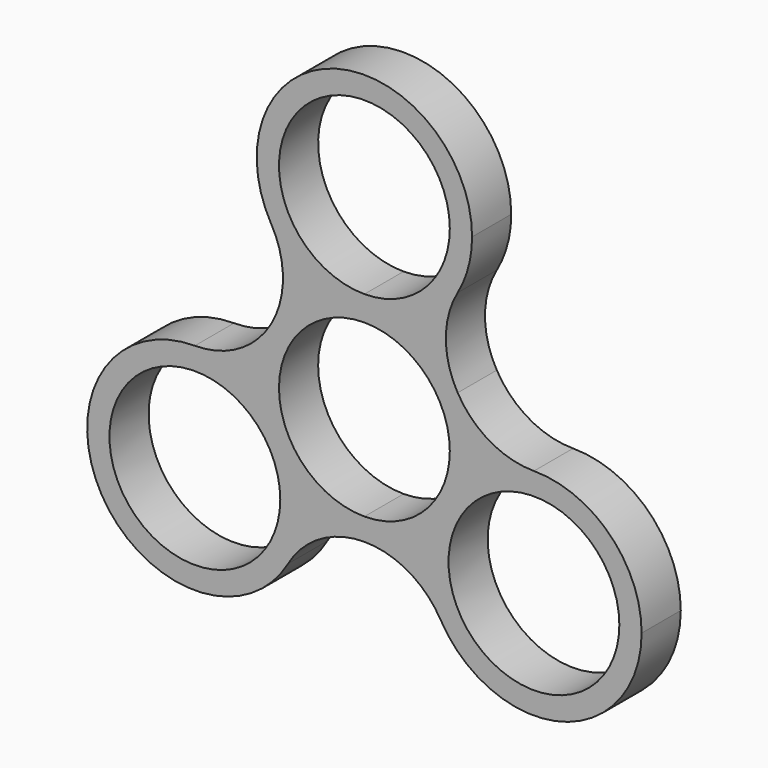
from build123d import *

# Parameters (mm, degrees)
F0_R     = 11.08075
F1_DEPTH = 6.35


with BuildPart() as f1:
    # F0 (on Front) → F1 (new body)
    with BuildSketch(Plane.XZ):
        with BuildLine():
            ThreePointArc((0, -11.08075), (-11.08075, 0), (0, 11.08075))
            Line((0, 11.08075), (0, 11.43))
            ThreePointArc((0, 11.43), (-2.9784140075, 11.7511923598), (-5.8198711326, 12.7))
            ThreePointArc((-5.8198711326, 12.7), (-9.4037860849, 10.3310070791), (-12.0983749873, 6.9849998329))
            ThreePointArc((-12.0983749873, 6.9849998329), (-13.6488076608, 2.9784139133), (-13.9084581944, -1.3098437524))
            ThreePointArc((-13.9084581944, -1.3098437524), (-9.8986703653, -5.715), (-8.0885870618, -11.3901562476))
            ThreePointArc((-8.0885870618, -11.3901562476), (-4.2450216288, -13.3094211509), (-4.4e-09, -13.97))
            Line((0, -13.97), (0, -11.08075))
        make_face()
        with BuildLine():
            ThreePointArc((-13.9084581944, -1.3098437524), (-12.0983748909, -6.985), (-8.0885870618, -11.3901562476))
            ThreePointArc((-8.0885870618, -11.3901562476), (-9.8986703653, -5.715), (-13.9084581944, -1.3098437524))
        make_face()
        with BuildLine():
            ThreePointArc((-8.0270452561, -12.7), (-8.042439189, -12.044355651), (-8.0885870618, -11.3901562476))
            ThreePointArc((-8.0885870618, -11.3901562476), (-12.0983748909, -6.985), (-13.9084581944, -1.3098437524))
            ThreePointArc((-13.9084581944, -1.3098437524), (-17.7520236295, 0.6094211516), (-21.9970452561, 1.27))
            ThreePointArc((-21.9970452561, 1.27), (-34.095420147, -19.685), (-9.8986703653, -19.685))
            ThreePointArc((-9.8986703653, -19.685), (-8.5030614629, -16.3157020601), (-8.0270452561, -12.7))
        make_face()
        with Locations((-21.9970452561, -12.7)):
            Circle(F0_R, mode=Mode.SUBTRACT)
        with BuildLine():
            ThreePointArc((-13.9084581944, -1.3098437524), (-13.6488076608, 2.9784139133), (-12.0983749873, 6.9849998329))
            ThreePointArc((-12.0983749873, 6.9849998329), (-16.2820453397, 2.8013295865), (-21.9970452561, 1.27))
            ThreePointArc((-21.9970452561, 1.27), (-17.7520236295, 0.6094211516), (-13.9084581944, -1.3098437524))
        make_face()
        with BuildLine():
            ThreePointArc((-12.0983749873, 6.9849998329), (-9.4037860849, 10.3310070791), (-5.8198711326, 12.7))
            ThreePointArc((-5.8198711326, 12.7), (-9.4037860136, 15.0689928559), (-12.0983748909, 18.415))
            ThreePointArc((-12.0983748909, 18.415), (-10.5670452561, 12.6999999036), (-12.0983749873, 6.9849998329))
        make_face()
        with BuildLine():
            ThreePointArc((-5.8198711326, 12.7), (-2.9784140075, 13.6488076402), (0, 13.97))
            ThreePointArc((0, 13.97), (2.9784140075, 13.6488076402), (5.8198711326, 12.7))
            ThreePointArc((5.8198711326, 12.7), (9.4037860136, 15.0689928559), (12.0983748909, 18.415))
            ThreePointArc((12.0983748909, 18.415), (13.4939837933, 21.7842979399), (13.97, 25.4))
            ThreePointArc((13.97, 25.4), (-3.6157020601, 38.8939837933), (-12.0983748909, 18.415))
            ThreePointArc((-12.0983748909, 18.415), (-9.4037860136, 15.0689928559), (-5.8198711326, 12.7))
        make_face()
        with BuildLine():
            ThreePointArc((11.08075, 25.4), (7.8352734656, 17.5647265344), (0, 14.31925))
            ThreePointArc((0, 14.31925), (-7.8352734656, 33.2352734656), (11.08075, 25.4))
        make_face(mode=Mode.SUBTRACT)
        with BuildLine():
            ThreePointArc((-5.8198711326, 12.7), (-2.9784140075, 11.7511923598), (0, 11.43))
            Line((0, 11.43), (0, 13.97))
            ThreePointArc((0, 13.97), (-2.9784140075, 13.6488076402), (-5.8198711326, 12.7))
        make_face()
        with BuildLine():
            Line((0, 13.97), (0, 11.43))
            ThreePointArc((0, 11.43), (2.9784140075, 11.7511923598), (5.8198711326, 12.7))
            ThreePointArc((5.8198711326, 12.7), (2.9784140075, 13.6488076402), (0, 13.97))
        make_face()
        with BuildLine():
            ThreePointArc((0, 11.08075), (7.8352734656, 7.8352734656), (11.08075, 0))
            ThreePointArc((11.08075, 0), (7.8352734656, -7.8352734656), (0, -11.08075))
            Line((0, -11.08075), (0, -13.97))
            ThreePointArc((-4.4e-09, -13.97), (4.2450216245, -13.3094211522), (8.0885870618, -11.3901562476))
            ThreePointArc((8.0885870618, -11.3901562476), (9.8986703653, -5.715), (13.9084581944, -1.3098437524))
            ThreePointArc((13.9084581944, -1.3098437524), (13.9546060671, -0.655644349), (13.97, 0))
            ThreePointArc((13.97, 0), (13.4939837983, 3.6157020414), (12.0983749102, 6.9849999665))
            ThreePointArc((12.0983749102, 6.9849999665), (9.4037860279, 10.331007131), (5.8198711326, 12.7))
            ThreePointArc((5.8198711326, 12.7), (2.9784140075, 11.7511923598), (0, 11.43))
            Line((0, 11.43), (0, 11.08075))
        make_face()
        with BuildLine():
            ThreePointArc((12.0983748909, 18.415), (9.4037860136, 15.0689928559), (5.8198711326, 12.7))
            ThreePointArc((5.8198711326, 12.7), (9.4037860279, 10.331007131), (12.0983749102, 6.9849999665))
            ThreePointArc((12.0983749102, 6.9849999665), (10.5670452561, 12.6999999806), (12.0983748909, 18.415))
        make_face()
        with BuildLine():
            ThreePointArc((21.9970452561, 1.27), (16.2820452729, 2.8013296251), (12.0983749102, 6.9849999665))
            ThreePointArc((12.0983749102, 6.9849999665), (13.4939837983, 3.6157020414), (13.97, 0))
            ThreePointArc((13.97, 0), (13.9546060671, -0.655644349), (13.9084581944, -1.3098437524))
            ThreePointArc((13.9084581944, -1.3098437524), (17.7520236295, 0.6094211516), (21.9970452561, 1.27))
        make_face()
        with BuildLine():
            ThreePointArc((13.9084581944, -1.3098437524), (12.0983748909, -6.985), (8.0885870618, -11.3901562476))
            ThreePointArc((8.0885870618, -11.3901562476), (8.3482376159, -15.6784140075), (9.8986703653, -19.685))
            ThreePointArc((9.8986703653, -19.685), (25.6127473162, -26.1939837933), (35.9670452561, -12.7))
            ThreePointArc((35.9670452561, -12.7), (31.8753269893, -2.8217182668), (21.9970452561, 1.27))
            ThreePointArc((21.9970452561, 1.27), (17.7520236295, 0.6094211516), (13.9084581944, -1.3098437524))
        make_face()
        with Locations((21.9970452561, -12.7)):
            Circle(F0_R, mode=Mode.SUBTRACT)
        with BuildLine():
            ThreePointArc((13.9084581944, -1.3098437524), (9.8986703653, -5.715), (8.0885870618, -11.3901562476))
            ThreePointArc((8.0885870618, -11.3901562476), (12.0983748909, -6.985), (13.9084581944, -1.3098437524))
        make_face()
        with BuildLine():
            ThreePointArc((-9.8986703653, -19.685), (-5.7150000019, -15.5013296359), (-4.4e-09, -13.97))
            ThreePointArc((-4.4e-09, -13.97), (-4.2450216288, -13.3094211509), (-8.0885870618, -11.3901562476))
            ThreePointArc((-8.0885870618, -11.3901562476), (-8.042439189, -12.044355651), (-8.0270452561, -12.7))
            ThreePointArc((-8.0270452561, -12.7), (-8.5030614629, -16.3157020601), (-9.8986703653, -19.685))
        make_face()
        with BuildLine():
            ThreePointArc((8.0885870618, -11.3901562476), (4.2450216245, -13.3094211522), (-4.4e-09, -13.97))
            ThreePointArc((-4.4e-09, -13.97), (5.7149999981, -15.5013296336), (9.8986703653, -19.685))
            ThreePointArc((9.8986703653, -19.685), (8.3482376159, -15.6784140075), (8.0885870618, -11.3901562476))
        make_face()
    extrude(amount=F1_DEPTH)


solid = f1.part
